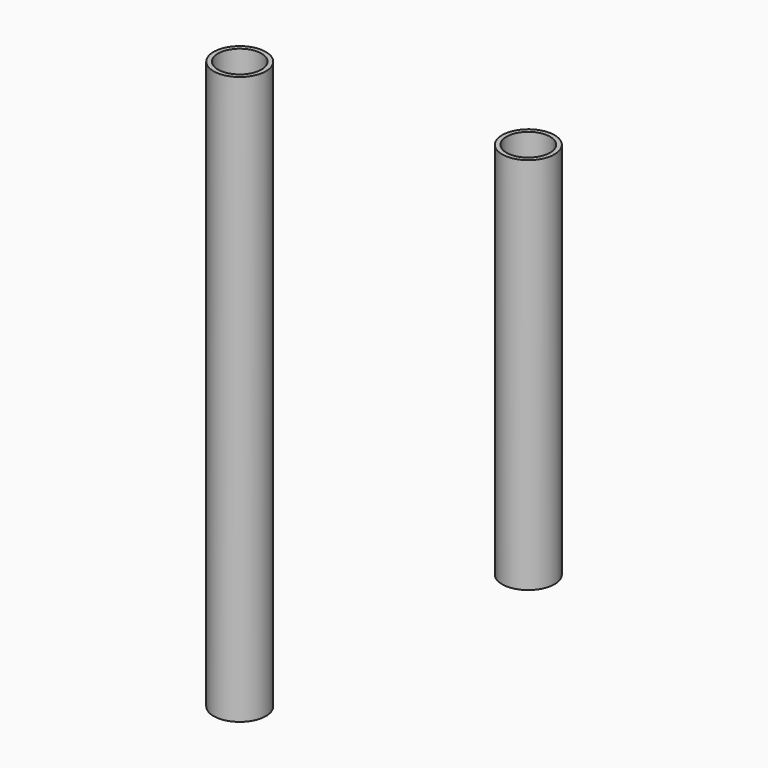
from build123d import *

# Parameters (mm, degrees)
F0_R     = 21.082
F0_R_2   = 17.526
F1_DEPTH = 304.8
F2_R     = 21.082
F2_R_2   = 17.526
F3_DEPTH = 457.2


with BuildPart() as f1:
    # F0 (on Top) → F1 (new body)
    with BuildSketch(Plane.XY):
        Circle(F0_R)
        Circle(F0_R_2, mode=Mode.SUBTRACT)
    extrude(amount=-F1_DEPTH)


with BuildPart() as f3:
    # F2 (on Top) → F3 (new body)
    with BuildSketch(Plane.XY):
        with Locations((-212.427974, -24.942346)):
            Circle(F2_R)
        with Locations((-212.427974, -24.942346)):
            Circle(F2_R_2, mode=Mode.SUBTRACT)
    extrude(amount=-F3_DEPTH)


solid = Compound([f1.part, f3.part])
